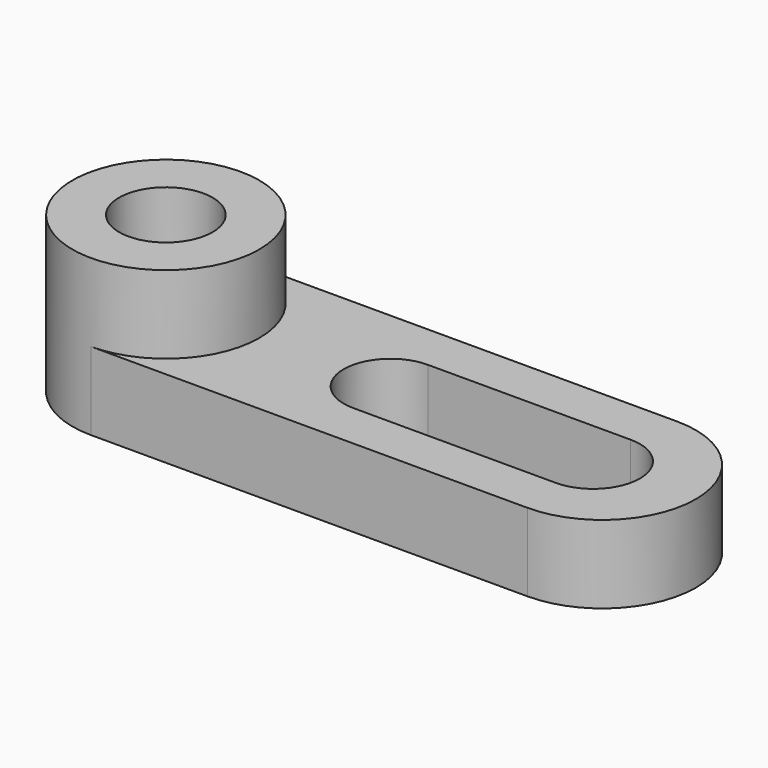
from build123d import *

# Parameters (mm, degrees)
F1_DEPTH = 20
F2_R     = 24
F3_DEPTH = 40
F4_R     = 12
F5_DEPTH = 40.001


with BuildPart() as f1:
    # F0 (on Top) → F1 (new body)
    with BuildSketch(Plane.XY):
        with BuildLine():
            Line((112, 24), (0, 24))
            ThreePointArc((0, 24), (-24, 0), (0, -24))
            Line((0, -24), (112, -24))
            ThreePointArc((112, -24), (136, 0), (112, 24))
        make_face()
    extrude(amount=F1_DEPTH)

    # F2 (on Top) → F3 (join)
    with BuildSketch(Plane.XY):
        Circle(F2_R)
    extrude(amount=F3_DEPTH)

    # F4 (on Top) → F5 (cut, through all)
    with BuildSketch(Plane.XY):
        Circle(F4_R)
        with BuildLine():
            Line((109.649421, 12), (57.649421, 12))
            ThreePointArc((57.649421, 12), (45.649421, 0), (57.649421, -12))
            Line((57.649421, -12), (109.649421, -12))
            ThreePointArc((109.649421, -12), (121.649421, 0), (109.649421, 12))
        make_face()
    extrude(amount=F5_DEPTH, mode=Mode.SUBTRACT)


solid = f1.part
